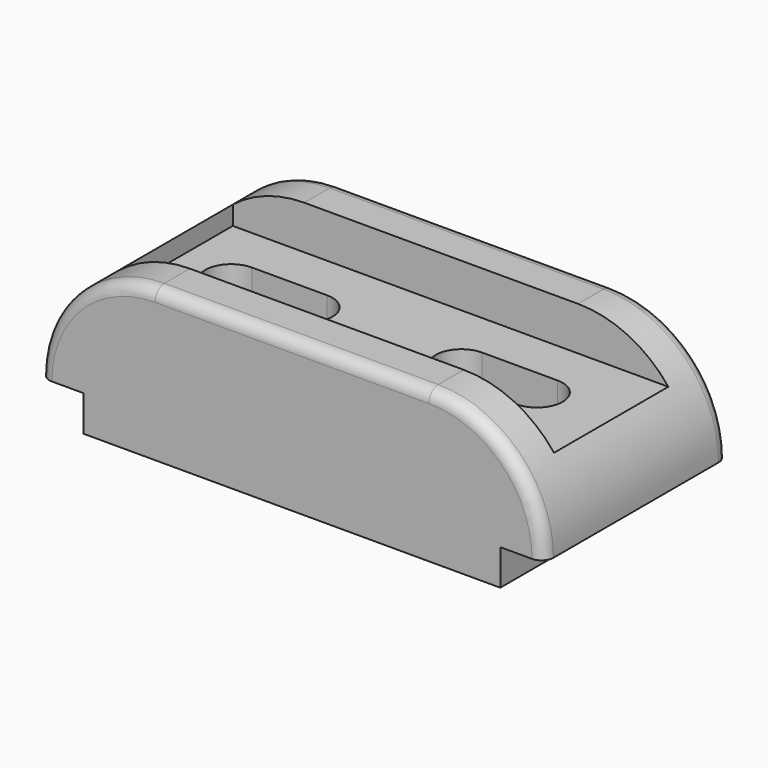
from build123d import *

# Parameters (mm, degrees)
F1_DEPTH = 58
F3_DEPTH = 38.001
F4_W     = 36
F4_H     = 11
F5_DEPTH = 116.001
F6_R     = 3


with BuildPart() as f1:
    # F0 (on Front) → F1 (new body)
    with BuildSketch(Plane.XZ):
        with BuildLine():
            Line((0, 9), (0, 0))
            Line((0, 0), (105, 0))
            Line((105, 0), (105, 9))
            Line((105, 9), (116, 9))
            ThreePointArc((116, 9), (107.506097, 29.506097), (87, 38))
            Line((87, 38), (18, 38))
            ThreePointArc((18, 38), (-2.506097, 29.506097), (-11, 9))
            Line((-11, 9), (0, 9))
        make_face()
    extrude(amount=F1_DEPTH)

    # F2 (on face) → F3 (cut, through all)
    with BuildSketch(Plane(origin=(0, 0, 0), x_dir=(1, 0, 0), z_dir=(0, 0, -1))):
        with BuildLine():
            Line((33, 35.5), (14, 35.5))
            ThreePointArc((14, 35.5), (7.5, 29), (14, 22.5))
            Line((14, 22.5), (33, 22.5))
            ThreePointArc((33, 22.5), (39.5, 29), (33, 35.5))
        make_face()
        with BuildLine():
            Line((91, 35.5), (72, 35.5))
            ThreePointArc((72, 35.5), (65.5, 29), (72, 22.5))
            Line((72, 22.5), (91, 22.5))
            ThreePointArc((91, 22.5), (97.5, 29), (91, 35.5))
        make_face()
    extrude(amount=-F3_DEPTH, mode=Mode.SUBTRACT)

    # F4 (on Right) → F5 (cut, through all)
    with BuildSketch(Plane.YZ):
        with Locations((-29, 32.5)):
            Rectangle(F4_W, F4_H)
    extrude(amount=F5_DEPTH, mode=Mode.SUBTRACT)

    # F6
    f6_edges = [f1.edges().sort_by_distance(p)[0] for p in [
        (52.5, -58, 38),
        (52.5, 0, 38),
    ]]
    fillet(f6_edges, radius=F6_R)


solid = f1.part
